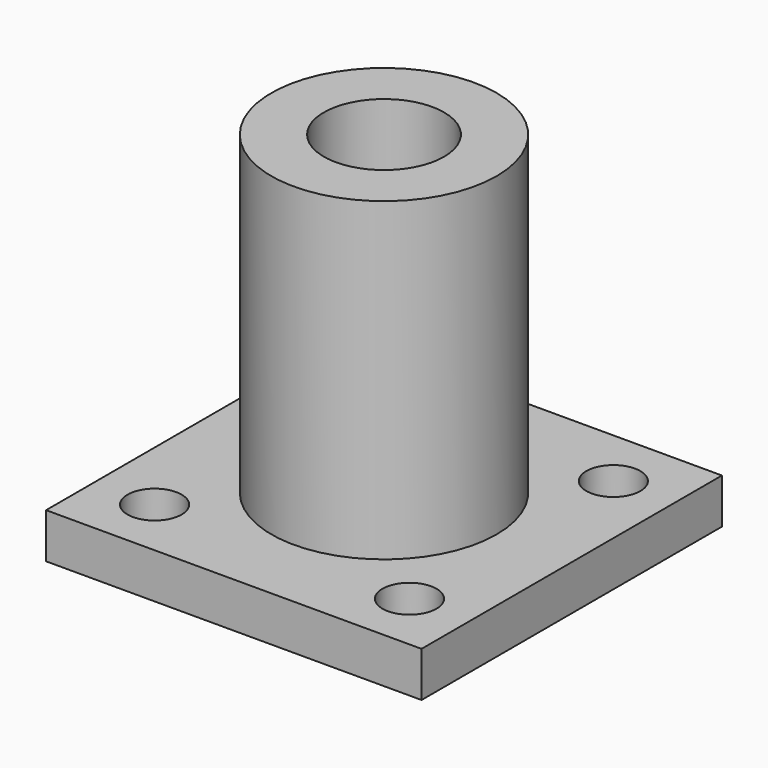
from build123d import *

# Parameters (mm, degrees)
SKETCH_W      = 25
SKETCH_H      = 25
SKETCH_R      = 1.8
SKETCH_R_2    = 4
PAD_DEPTH     = 3
SKETCH001_R   = 7.5
SKETCH001_R_2 = 4
PAD001_DEPTH  = 21


with BuildPart() as part:
    # Sketch → Pad (new body)
    with BuildSketch(Plane.XY):
        Rectangle(SKETCH_W, SKETCH_H)
        with Locations((-8.485281, 8.485281)):
            Circle(SKETCH_R, mode=Mode.SUBTRACT)
        with Locations((8.485281, 8.485281)):
            Circle(SKETCH_R, mode=Mode.SUBTRACT)
        with Locations((-8.485281, -8.485281)):
            Circle(SKETCH_R, mode=Mode.SUBTRACT)
        with Locations((8.485281, -8.485281)):
            Circle(SKETCH_R, mode=Mode.SUBTRACT)
        Circle(SKETCH_R_2, mode=Mode.SUBTRACT)
    extrude(amount=PAD_DEPTH)

    # Sketch001 → Pad001 (new body)
    with BuildSketch(Plane.XY.offset(3)):
        Circle(SKETCH001_R)
        Circle(SKETCH001_R_2, mode=Mode.SUBTRACT)
    extrude(amount=PAD001_DEPTH)


solid = part.part
